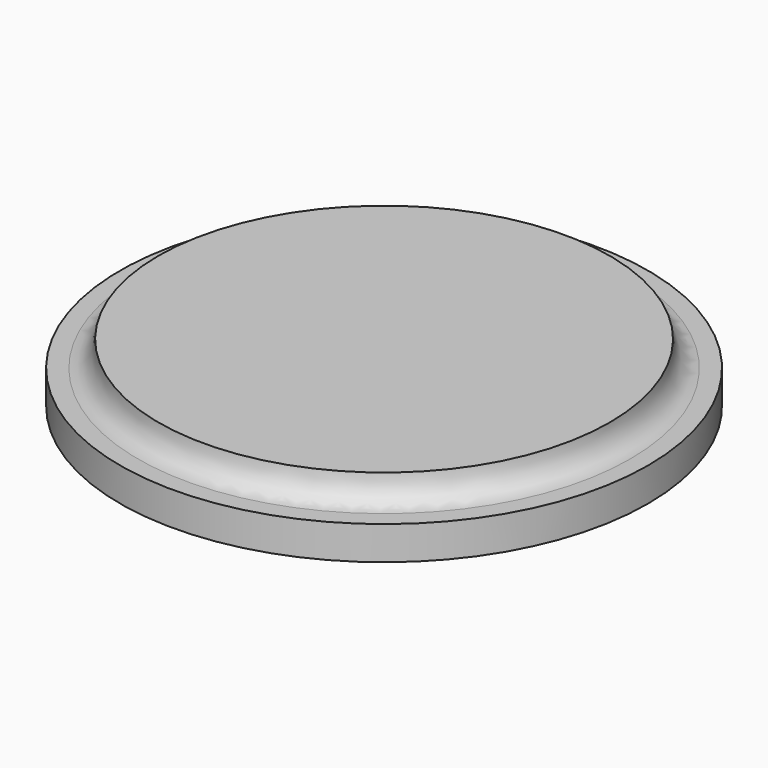
from build123d import *


with BuildPart() as f1:
    # F0 (on Front) → F1 (revolve)
    with BuildSketch(Plane.XZ):
        with BuildLine():
            Line((4.0441047843, 0), (-270.9558952157, 0))
            Line((-270.9558952157, 0), (-270.9558952157, -71.9148740172))
            Line((-270.9558952157, -71.9148740172), (50.6874099374, -71.9148740172))
            Line((50.6874099374, -71.9148740172), (50.6874099374, -31))
            Line((50.6874099374, -31), (29.0441047843, -31))
            add(Edge.make_bspline(
                [(4.0441047843, 0), (4.0441047843, -31), (29.0441047843, -31)],
                knots=[4.7123889804, 4.7123889804, 4.7123889804, 6.2831853072, 6.2831853072, 6.2831853072], degree=2, weights=[1, 0.7071067812, 1]))
        make_face()
    revolve(axis=Axis((-270.9558952157, 0, -35.9574370086), (0, 0, 1)))


solid = f1.part
